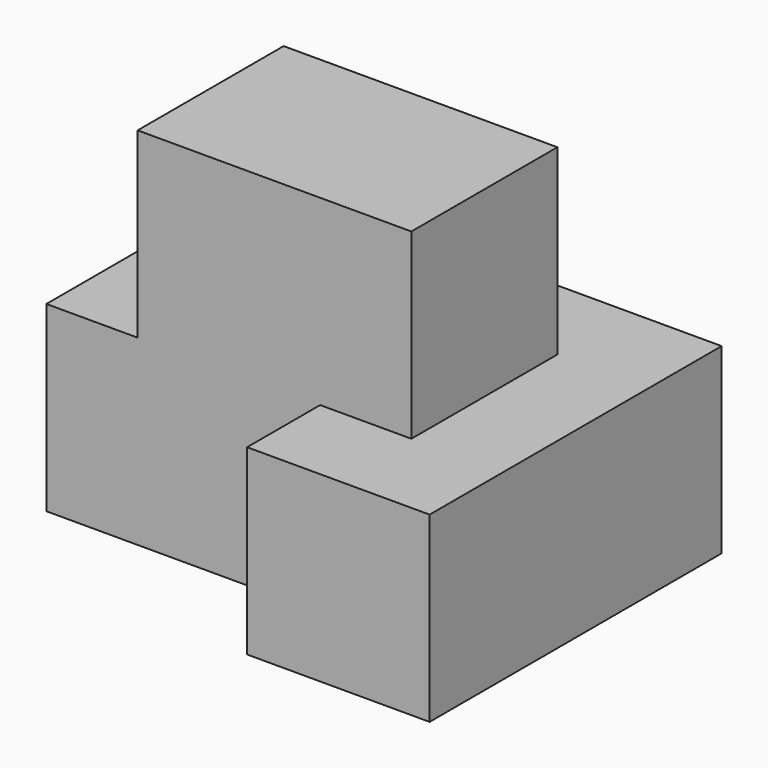
from build123d import *

# Parameters (mm, degrees)
F0_W     = 50
F0_H     = 40
F1_DEPTH = 40
F2_W     = 10
F2_H     = 20
F3_DEPTH = 50.001
F4_W     = 30
F4_H     = 10
F5_DEPTH = 20.001
F6_W     = 10
F6_H     = 20
F7_DEPTH = 20
F8_W     = 10
F8_H     = 20
F9_DEPTH = 30.001


with BuildPart() as f1:
    # F0 (on Front) → F1 (new body)
    with BuildSketch(Plane.XZ):
        with Locations((25, 20)):
            Rectangle(F0_W, F0_H)
    extrude(amount=F1_DEPTH)

    # F2 (on face) → F3 (cut, through all)
    with BuildSketch(Plane(origin=(0, 0, 0), x_dir=(0, -1, 0), z_dir=(-1, 0, 0))):
        with Locations((5, 30)):
            Rectangle(F2_W, F2_H)
        with Locations((35, 30)):
            Rectangle(F2_W, F2_H)
    extrude(amount=-F3_DEPTH, mode=Mode.SUBTRACT)

    # F4 (on face) → F5 (cut, through all)
    with BuildSketch(Plane.XY.offset(20)):
        with Locations((15, -5)):
            Rectangle(F4_W, F4_H)
        with Locations((15, -35)):
            Rectangle(F4_W, F4_H)
    extrude(amount=-F5_DEPTH, mode=Mode.SUBTRACT)

    # F6 (on face) → F7 (cut, through all)
    with BuildSketch(Plane.XY.offset(40)):
        with Locations((45, -20)):
            Rectangle(F6_W, F6_H)
    extrude(amount=-F7_DEPTH, mode=Mode.SUBTRACT)

    # F8 (on face) → F9 (cut, through all)
    with BuildSketch(Plane.XZ.offset(30)):
        with Locations((5, 30)):
            Rectangle(F8_W, F8_H)
    extrude(amount=-F9_DEPTH, mode=Mode.SUBTRACT)


solid = f1.part
